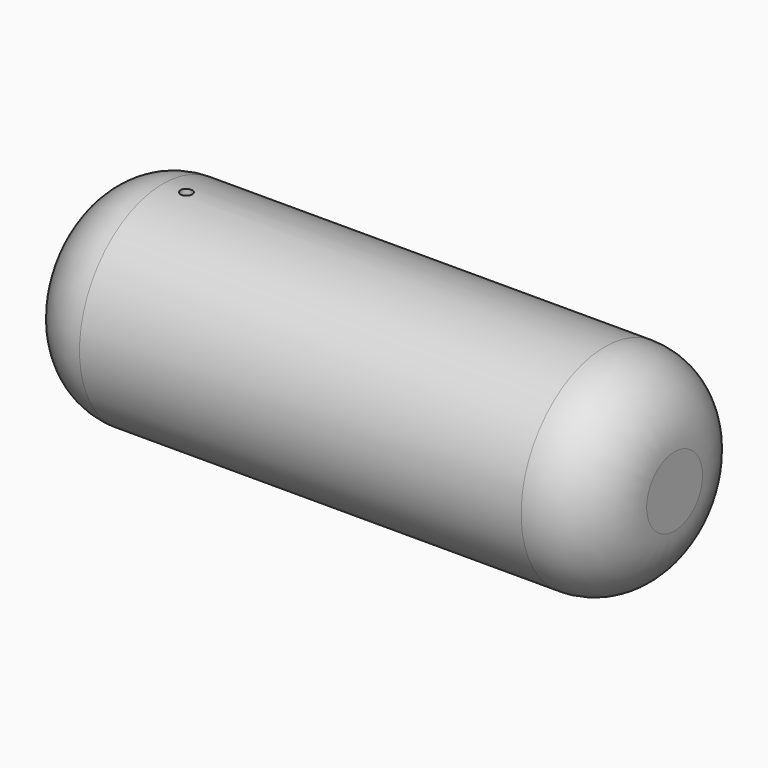
from build123d import *

# Parameters (mm, degrees)
F0_R     = 9
F1_DEPTH = 50
F2_R     = 6
F3_R     = 0.5
F4_DEPTH = 25


with BuildPart() as f1:
    # F0 (on Right) → F1 (new body)
    with BuildSketch(Plane.YZ):
        Circle(F0_R)
    extrude(amount=F1_DEPTH)

    # F2
    f2_edges = [f1.edges().sort_by_distance(p)[0] for p in [
        (50, -9, 0),
        (0, -9, 0),
    ]]
    fillet(f2_edges, radius=F2_R)

    # F3 (on Top) → F4 (cut)
    with BuildSketch(Plane.XY):
        with Locations((8, 0)):
            Circle(F3_R)
    extrude(amount=F4_DEPTH, mode=Mode.SUBTRACT)


solid = f1.part
